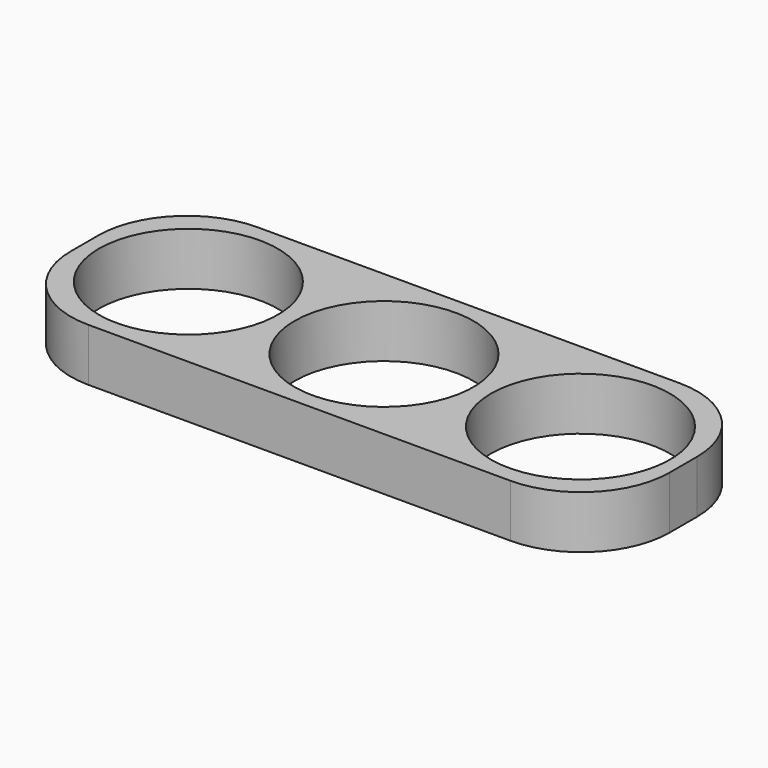
from build123d import *

# Parameters (mm, degrees)
F0_W     = 107.95
F0_H     = 38.1
F1_DEPTH = 9.525
F3_D     = 32.258
F5_D     = 32.258
F7_D     = 32.258
F8_R     = 15.943466
F9_R     = 15.9512
F10_R    = 15.9512
F11_R    = 15.9512


with BuildPart() as f1:
    # F0 (on Top) → F1 (new body)
    with BuildSketch(Plane.XY):
        Rectangle(F0_W, F0_H)
    extrude(amount=F1_DEPTH)

    # F3 (through all)
    with Locations(Plane.XY.offset(9.525)):
        with Locations((0, 0)):
            Hole(F3_D / 2)

    # F5 (through all)
    with Locations(Plane(origin=(0, 0, 0), x_dir=(1, 0, 0), z_dir=(0, 0, -1))):
        with Locations((-35.259712, 0)):
            Hole(F5_D / 2)

    # F7 (through all)
    with Locations(Plane(origin=(0, 0, 0), x_dir=(1, 0, 0), z_dir=(0, 0, -1))):
        with Locations((35.419382, 0)):
            Hole(F7_D / 2)

    # F8
    f8_edges = [f1.edges().sort_by_distance(p)[0] for p in [
        (53.975, 19.05, 4.7625),
    ]]
    fillet(f8_edges, radius=F8_R)

    # F9
    f9_edges = [f1.edges().sort_by_distance(p)[0] for p in [
        (53.975, -19.05, 4.7625),
    ]]
    fillet(f9_edges, radius=F9_R)

    # F10
    f10_edges = [f1.edges().sort_by_distance(p)[0] for p in [
        (-53.975, -19.05, 4.7625),
    ]]
    fillet(f10_edges, radius=F10_R)

    # F11
    f11_edges = [f1.edges().sort_by_distance(p)[0] for p in [
        (-53.975, 19.05, 4.7625),
    ]]
    fillet(f11_edges, radius=F11_R)


solid = f1.part
